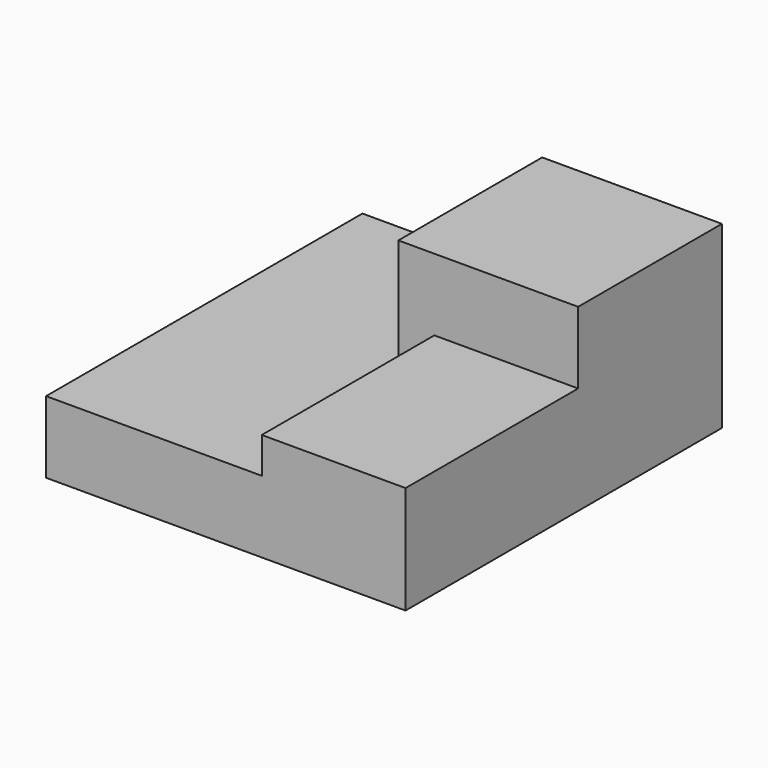
from build123d import *

# Parameters (mm, degrees)
F1_DEPTH = 25
F2_DEPTH = 10
F0_W     = 20
F0_H     = 30
F3_DEPTH = 15


with BuildPart() as f1:
    # F0 (on Top) → F1 (new body)
    with BuildSketch(Plane.XY):
        Polygon((0, 25), (0, 0), (5, 0), (25, 0), (25, 25), align=None)
    extrude(amount=F1_DEPTH)

    # F0 (on Top) → F2 (join)
    with BuildSketch(Plane.XY):
        Polygon((5, 0), (0, 0), (0, 25), (-25, 25), (-25, -30), (5, -30), align=None)
    extrude(amount=F2_DEPTH)

    # F0 (on Top) → F3 (join)
    with BuildSketch(Plane.XY):
        with Locations((15, -15)):
            Rectangle(F0_W, F0_H)
    extrude(amount=F3_DEPTH)


solid = f1.part
